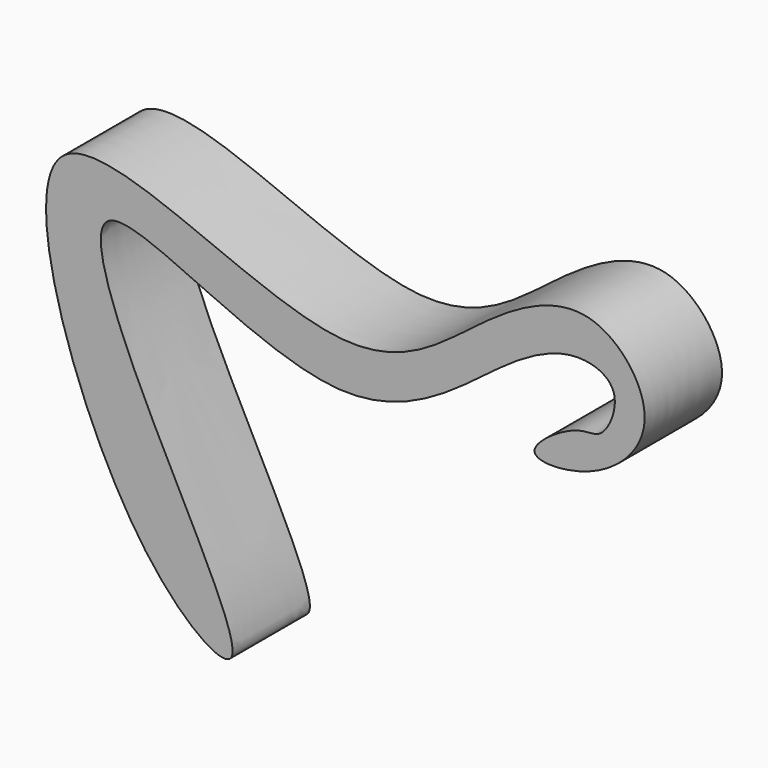
from build123d import *

# Parameters (mm, degrees)
F1_DEPTH = 12.7


with BuildPart() as f1:
    # F0 (on Front) → F1 (new body)
    with BuildSketch(Plane.XZ):
        with BuildLine():
            add(Edge.make_bspline(
                [(31.3921496272, -4.422029946), (29.2210776513, -5.0856508722), (22.2918323796, -9.8658520914), (34.6071826018, -9.7917258341), (43.6316611847, -0.3503756964), (33.3814974765, 12.6688854806), (18.1059152413, 4.4732532542), (2.0585217409, -11.6388295321), (-49.544161141, 23.10913995), (-29.9717070485, -37.4706662309), (-7.1198139326, -52.2134407212), (-26.262050489, -19.6601760085), (-36.8352965956, 9.5036564862), (1.8513335788, -17.9952334824), (20.8757535761, 0.3891719262), (31.2277880223, 5.2546327413), (37.8267749998, 2.2403989604), (34.9473521977, -4.7909894574), (32.9091659936, -3.9583309912), (31.3921496272, -4.422029946)],
                knots=[0, 0, 0, 0, 0.0392765814, 0.079300108, 0.1294742254, 0.1801337078, 0.2373682424, 0.3058309365, 0.3968035972, 0.4943599611, 0.5524992003, 0.6331722543, 0.6984232356, 0.7819131573, 0.855144289, 0.9041754102, 0.9379442976, 0.9725558538, 1, 1, 1, 1], degree=3))
        make_face()
    extrude(amount=F1_DEPTH)


solid = f1.part
